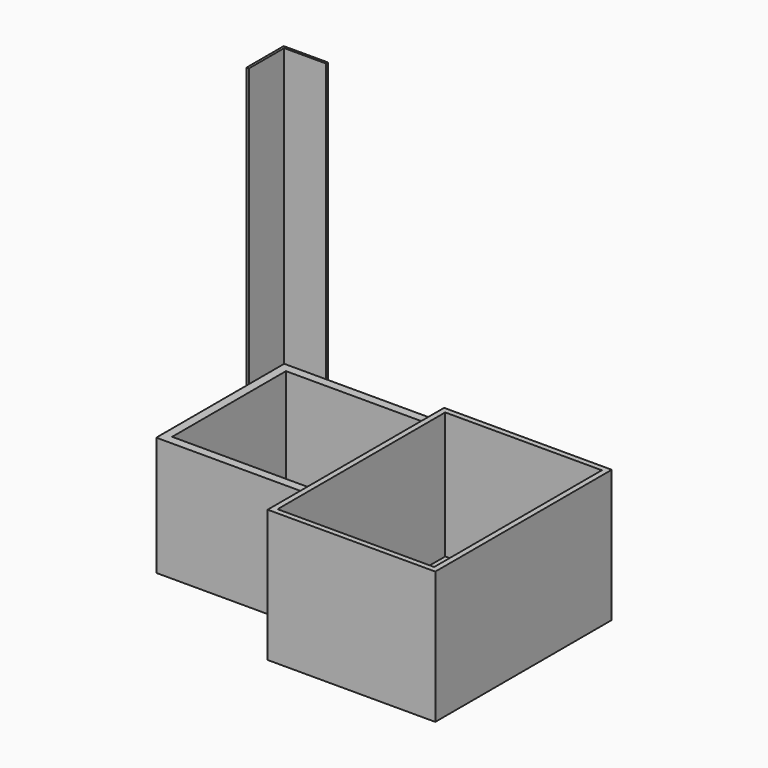
from build123d import *

# Parameters (mm, degrees)
F0_W     = 96.52
F0_H     = 127
F1_DEPTH = 76.2
F2_W     = 90.17
F2_H     = 120.65
F3_DEPTH = 73.025
F4_W     = 92.075
F4_H     = 92.075
F5_DEPTH = 68.58
F6_W     = 81.915
F6_H     = 81.915
F7_DEPTH = 63.5
F8_W     = 1.397
F8_H     = 25.4
F9_DEPTH = 228.6


with BuildPart() as f1:
    # F0 (on Top) → F1 (new body)
    with BuildSketch(Plane.XY):
        Rectangle(F0_W, F0_H)
    extrude(amount=F1_DEPTH)

    # F2 (on face) → F3 (cut)
    with BuildSketch(Plane.XY.offset(76.2)):
        Rectangle(F2_W, F2_H)
    extrude(amount=-F3_DEPTH, mode=Mode.SUBTRACT)


with BuildPart() as f5:
    # F4 (on Top) → F5 (new body)
    with BuildSketch(Plane.XY):
        with Locations((-94.2975, 17.4625)):
            Rectangle(F4_W, F4_H)
    extrude(amount=F5_DEPTH)

    # F6 (on face) → F7 (cut)
    with BuildSketch(Plane.XY.offset(68.58)):
        with Locations((-94.2975, 17.4625)):
            Rectangle(F6_W, F6_H)
    extrude(amount=-F7_DEPTH, mode=Mode.SUBTRACT)


with BuildPart() as f9:
    # F8 (on Top) → F9 (new body)
    with BuildSketch(Plane.XY):
        with Locations((-141.0335, 50.8)):
            Rectangle(F8_W, F8_H)
        Polygon((-141.732, 63.5), (-140.335, 63.5), (-116.332, 63.5), (-116.332, 64.897), (-141.732, 64.897), align=None)
    extrude(amount=F9_DEPTH)


solid = Compound([f1.part, f5.part, f9.part])
